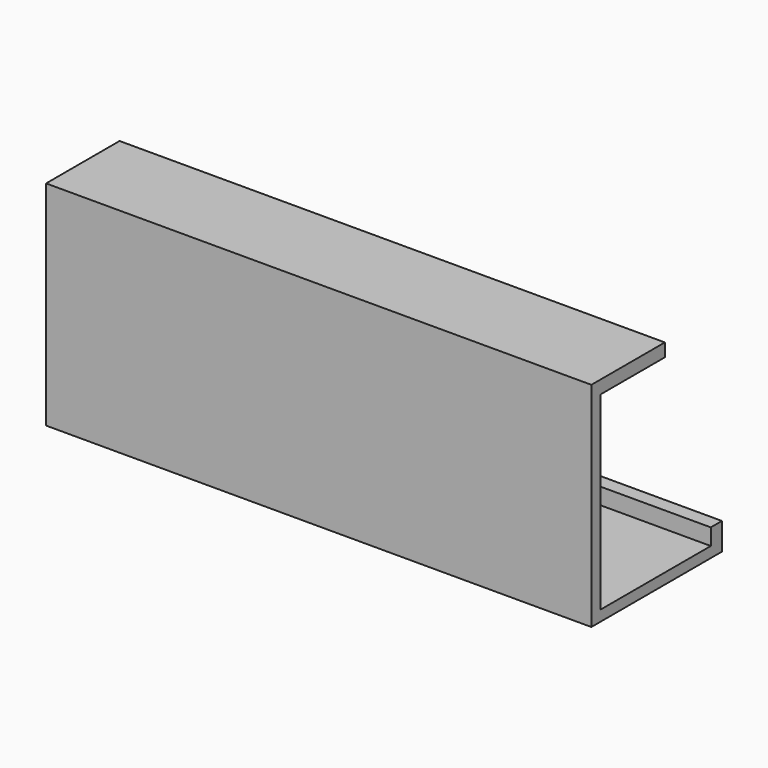
from build123d import *

# Parameters (mm, degrees)
F0_W     = 5.113421
F0_H     = 6.01579
F1_DEPTH = 200


with BuildPart() as f1:
    # F0 (on Right) → F1 (new body)
    with BuildSketch(Plane.YZ):
        with Locations((-2.55671, -23.16079)):
            Rectangle(F0_W, F0_H)
        Polygon((-59.857104, -30.078948), (0, -30.078948), (0, -26.168685), (-5.113421, -26.168685), (-55.646054, -26.168685), (-55.646054, 43.313686), (-26.168685, 43.313686), (-26.168685, 48.126314), (-59.857104, 48.126314), align=None)
    extrude(amount=F1_DEPTH)


solid = f1.part
